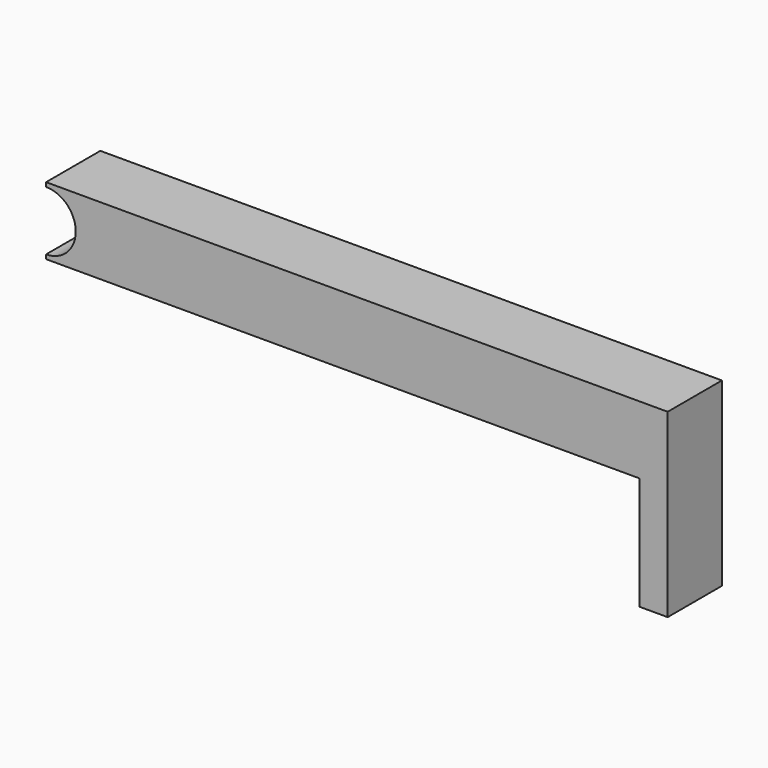
from build123d import *

# Parameters (mm, degrees)
BOX_W        = 110
BOX_H        = 12
BOX_DEPTH    = 12
POCKET_DEPTH = 12
SKETCH001_W  = 5
SKETCH001_H  = 20
PAD_DEPTH    = 12


with BuildPart() as part:
    # Box → Box (new body)
    with BuildSketch(Plane(origin=(0, -6, -6), x_dir=(1, 0, 0), z_dir=(0, 0, 1))):
        with Locations((55, 6)):
            Rectangle(BOX_W, BOX_H)
    extrude(amount=BOX_DEPTH)

    # Sketch → Pocket (cut)
    with BuildSketch(Plane(origin=(0, -6, -6), x_dir=(1, 0, 0), z_dir=(0, -1, 0))):
        with BuildLine():
            ThreePointArc((0, 0.75), (5.25, 6), (0, 11.25))
            Line((0, 11.25), (0, 0.75))
        make_face()
    extrude(amount=-POCKET_DEPTH, mode=Mode.SUBTRACT)

    # Sketch001 → Pad (new body)
    with BuildSketch(Plane(origin=(0, -6, -6), x_dir=(1, 0, 0), z_dir=(0, -1, 0))):
        with Locations((107.5, -10)):
            Rectangle(SKETCH001_W, SKETCH001_H)
    extrude(amount=-PAD_DEPTH)


solid = part.part
